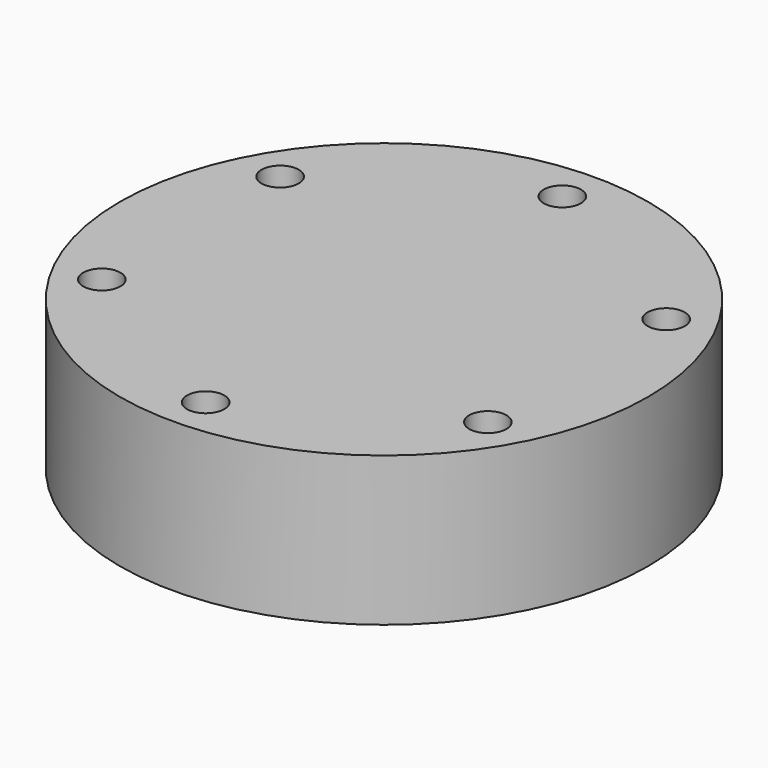
from build123d import *

# Parameters (mm, degrees)
F0_R           = 90.0160626722
F1_DEPTH       = 25.4
F3_D           = 12.7
F3_DEPTH       = 12.7
F3_CBORE_D     = 12.7
F3_CBORE_DEPTH = 10.16
F3_TIP         = 3.8154649308


with BuildPart() as f1:
    # F0 (on Top) → F1 (new body, symmetric)
    with BuildSketch(Plane.XY):
        Circle(F0_R)
    extrude(amount=F1_DEPTH, both=True)

    # F3
    with Locations(Plane.XY.offset(25.4)):
        with Locations((0, 75.9682357311), (-65.7904220238, 37.9841178656), (-65.7904220238, -37.9841178656), (0, -75.9682357311), (65.7904220238, -37.9841178656), (65.7904220238, 37.9841178656)):
            CounterBoreHole(F3_D / 2, F3_CBORE_D / 2, F3_CBORE_DEPTH, depth=F3_DEPTH)
            with Locations((0, 0, -(F3_DEPTH + F3_TIP / 2))):  # 118° drill point
                Cone(0, F3_D / 2, F3_TIP, mode=Mode.SUBTRACT)


solid = f1.part
